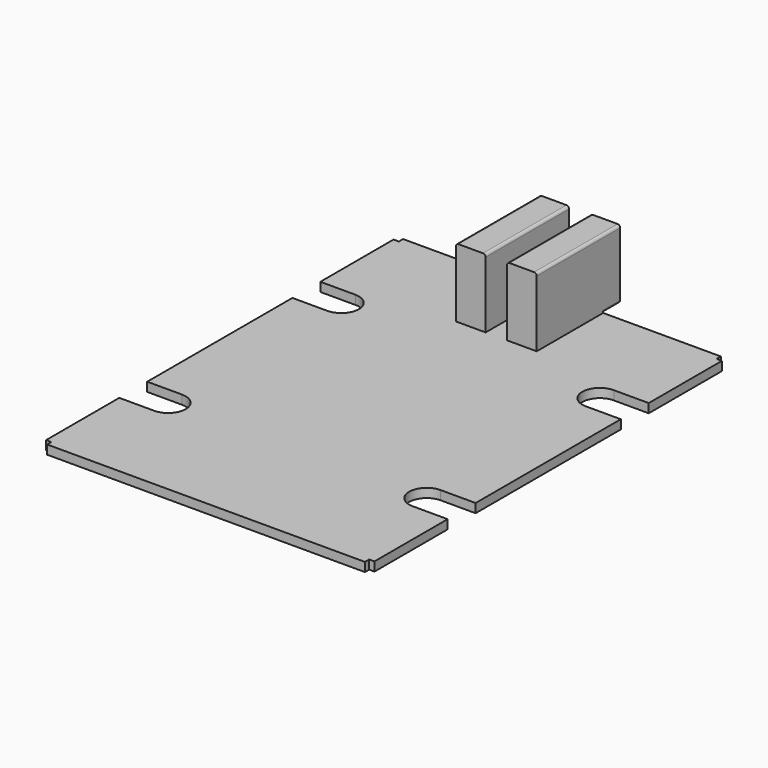
from build123d import *

# Parameters (mm, degrees)
PAD_DEPTH       = 1.7
SKETCH003_W     = 5.61
SKETCH003_H     = 19.7
PAD008_DEPTH    = 13
SKETCH020_W     = 4.61
SKETCH020_H     = 11.65
SKETCH020_W_2   = 1
SKETCH020_H_2   = 10.75
POCKET009_DEPTH = 18
FILLET012_R     = 0.5
FILLET013_R     = 0.5
CHAMFER_SIZE    = 0.3


with BuildPart() as part:
    # Sketch → Pad (new body)
    with BuildSketch(Plane.XY):
        with BuildLine():
            Line((0, 0), (30, 0))
            Line((30, 0), (30, 1))
            Line((30, 1), (31, 1))
            Line((31, 1), (31, 18.27))
            Line((31, 18.27), (24.4, 18.27))
            ThreePointArc((24.4, 24.87), (21.1, 21.57), (24.4, 18.27))
            Line((24.4, 24.87), (31, 24.87))
            Line((31, 24.87), (31, 59.13))
            Line((31, 59.13), (24.4, 59.13))
            ThreePointArc((24.4, 65.73), (21.1, 62.43), (24.4, 59.13))
            Line((24.4, 65.73), (31, 65.73))
            Line((31, 65.73), (31, 83))
            Line((30, 83), (31, 83))
            Line((30, 84), (30, 83))
            Line((30, 84), (0, 84))
            Line((0, 84), (-30, 84))
            Line((-30, 84), (-30, 83))
            Line((-30, 83), (-31, 83))
            Line((-31, 83), (-31, 65.73))
            Line((-31, 65.73), (-24.4, 65.73))
            ThreePointArc((-24.4, 59.13), (-21.1, 62.43), (-24.4, 65.73))
            Line((-24.4, 59.13), (-31, 59.13))
            Line((-31, 59.13), (-31, 24.87))
            Line((-31, 24.87), (-24.4, 24.87))
            ThreePointArc((-24.4, 18.27), (-21.1, 21.57), (-24.4, 24.87))
            Line((-24.4, 18.27), (-31, 18.27))
            Line((-31, 18.27), (-31, 1))
            Line((-31, 1), (-30, 1))
            Line((-30, 1), (-30, 0))
            Line((-30, 0), (0, 0))
        make_face()
    extrude(amount=PAD_DEPTH)

    # Sketch003 → Pad008 (new body)
    with BuildSketch(Plane.XY.offset(1.7)):
        with Locations((-4.675, 78.17)):
            Rectangle(SKETCH003_W, SKETCH003_H)
        with Locations((4.975, 78.17)):
            Rectangle(SKETCH003_W, SKETCH003_H)
    extrude(amount=PAD008_DEPTH)

    # Sketch020 → Pocket009 (cut)
    with BuildSketch(Plane(origin=(0, 88.02, 0), x_dir=(-1, 0, 0), z_dir=(0, 1, 0))):
        with Locations((-4.975, 8.375)):
            Rectangle(SKETCH020_W, SKETCH020_H)
        with Locations((-6.28, 8.325)):
            Rectangle(SKETCH020_W_2, SKETCH020_H_2, mode=Mode.SUBTRACT)
        with Locations((4.675, 8.375)):
            Rectangle(SKETCH020_W, SKETCH020_H)
        with Locations((3.37, 8.325)):
            Rectangle(SKETCH020_W_2, SKETCH020_H_2, mode=Mode.SUBTRACT)
    extrude(amount=-POCKET009_DEPTH, mode=Mode.SUBTRACT)

    # Fillet012
    fillet012_edges = [part.edges().sort_by_distance(p)[0] for p in [
        (7.78, 78.17, 14.7),
        (2.17, 78.17, 14.7),
        (-1.87, 78.17, 14.7),
        (-7.48, 78.17, 14.7),
        (-7.48, 86.01, 1.7),
        (2.17, 86.01, 1.7),
        (7.78, 86.01, 1.7),
        (-1.87, 86.01, 1.7),
    ]]
    fillet(fillet012_edges, radius=FILLET012_R)

    # Fillet013
    fillet013_edges = [part.edges().sort_by_distance(p)[0] for p in [
        (7.28, 79.02, 14.2),
        (-2.37, 79.02, 14.2),
        (2.67, 79.02, 14.2),
        (-6.98, 79.02, 14.2),
        (7.28, 79.02, 2.55),
        (-2.37, 79.02, 2.55),
        (2.67, 79.02, 2.55),
        (-6.98, 79.02, 2.55),
    ]]
    fillet(fillet013_edges, radius=FILLET013_R)

    # Chamfer
    chamfer_edges = [part.edges().sort_by_distance(p)[0] for p in [
        (6.78, 79.02, 13.7),
        (-2.87, 79.02, 13.7),
        (-2.87, 79.02, 2.95),
        (6.78, 79.02, 2.95),
    ]]
    chamfer(chamfer_edges, length=CHAMFER_SIZE)


solid = part.part
